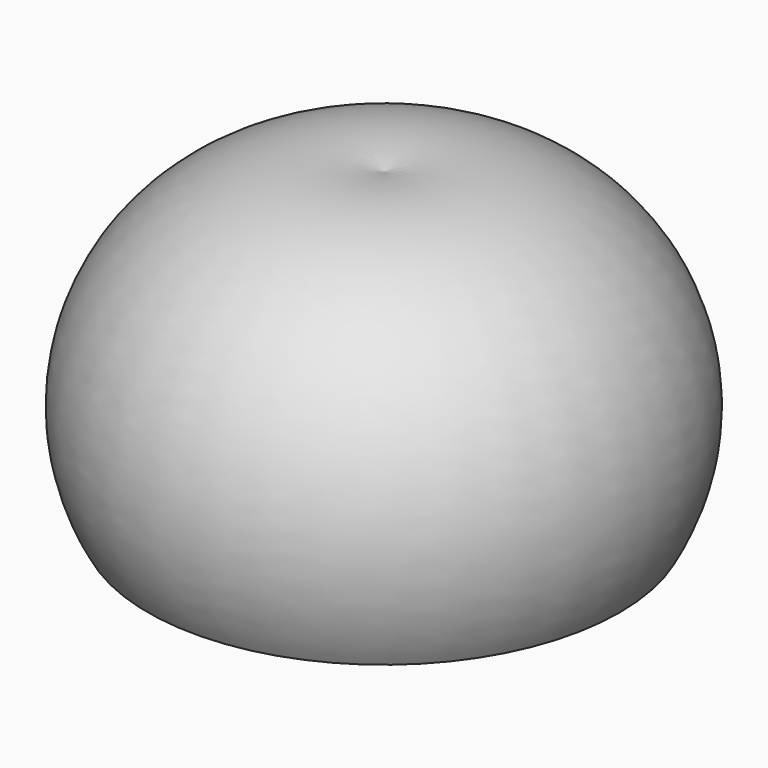
from build123d import *


with BuildPart() as f1:
    # F0 (on Front) → F1 (revolve)
    with BuildSketch(Plane.XZ):
        with BuildLine():
            ThreePointArc((42.55541, 0), (39.834287, 42.128592), (0, 56.109019))
            Line((0, 56.109019), (0, 0))
            Line((0, 0), (42.55541, 0))
        make_face()
    revolve(axis=Axis((0, 0, -0.145737), (0, 0, -1)))


solid = f1.part
